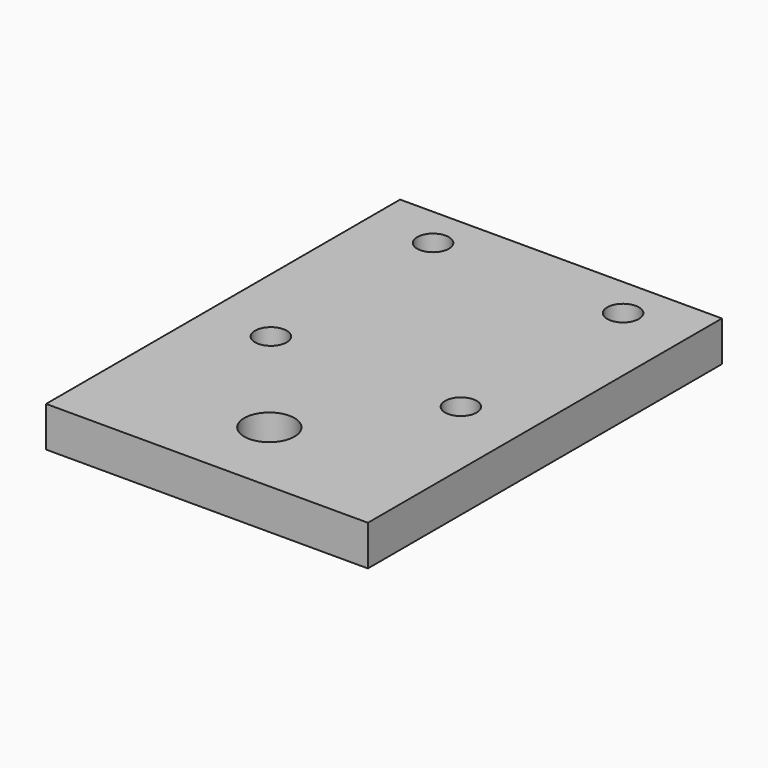
from build123d import *

# Parameters (mm, degrees)
F0_W     = 50.8
F0_H     = 6.35
F1_DEPTH = 69.85
F2_R     = 2.5
F2_R_2   = 3.96875
F3_DEPTH = 6.351


with BuildPart() as f1:
    # F0 (on Front) → F1 (new body)
    with BuildSketch(Plane.XZ):
        Rectangle(F0_W, F0_H)
    extrude(amount=F1_DEPTH)

    # F2 (on face) → F3 (cut, through all)
    with BuildSketch(Plane.XY.offset(3.175)):
        with Locations((-15, -38.5)):
            Circle(F2_R)
        with Locations((15, -38.5)):
            Circle(F2_R)
        with Locations((15, -6.5)):
            Circle(F2_R)
        with Locations((-15, -6.5)):
            Circle(F2_R)
        with Locations((0, -57.55)):
            Circle(F2_R_2)
    extrude(amount=-F3_DEPTH, mode=Mode.SUBTRACT)


solid = f1.part
